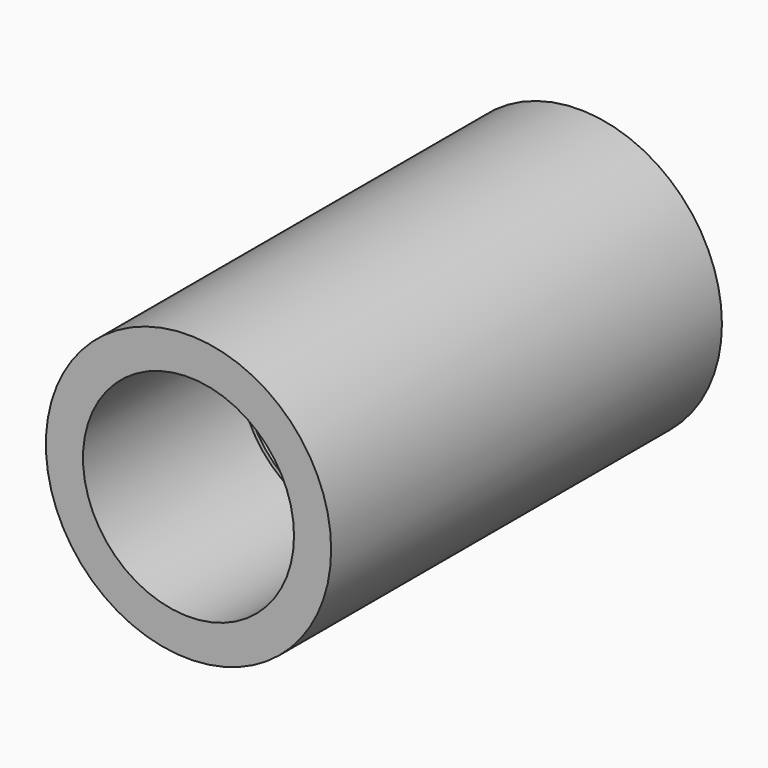
from build123d import *

# Parameters (mm, degrees)
F0_R          = 36.5
F0_R_2        = 27
F1_DEPTH      = 62.5
F1_DEPTH_BACK = 62.5
F2_R          = 26.95
F2_R_2        = 26
F3_DEPTH      = 12.5
F3_DEPTH_BACK = 12.5


with BuildPart() as f1:
    # F0 (on Front) → F1 (new body, two sides)
    with BuildSketch(Plane.XZ) as f1_sk:
        Circle(F0_R)
        Circle(F0_R_2, mode=Mode.SUBTRACT)
    extrude(amount=F1_DEPTH)
    extrude(f1_sk.sketch, amount=-F1_DEPTH_BACK)


with BuildPart() as f3:
    # F2 (on Front) → F3 (new body, two sides)
    with BuildSketch(Plane.XZ) as f3_sk:
        Circle(F2_R)
        Circle(F2_R_2, mode=Mode.SUBTRACT)
    extrude(amount=F3_DEPTH)
    extrude(f3_sk.sketch, amount=-F3_DEPTH_BACK)


solid = Compound([f1.part, f3.part])
